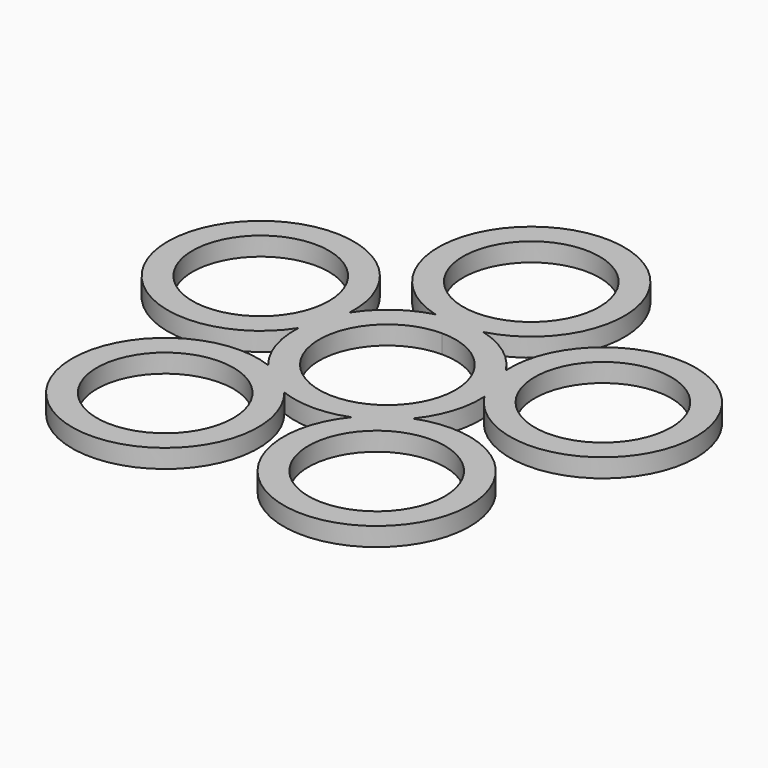
from build123d import *

# Parameters (mm, degrees)
F0_R     = 11
F1_DEPTH = 3


with BuildPart() as f1:
    # F0 (on Top) → F1 (new body)
    with BuildSketch(Plane.XY):
        with BuildLine():
            ThreePointArc((-12.603517, 8.133348), (-41.846487, 13.596748), (-14.977122, 0.828145))
            ThreePointArc((-14.977122, 0.828145), (-14.265848, -4.635255), (-11.629975, -9.473314))
            ThreePointArc((-11.629975, -9.473314), (-25.862551, -35.596748), (-5.415797, -13.988179))
            ThreePointArc((-5.415797, -13.988179), (0, -15), (5.415797, -13.988179))
            ThreePointArc((5.415797, -13.988179), (25.862551, -35.596748), (11.629975, -9.473314))
            ThreePointArc((11.629975, -9.473314), (14.265848, -4.635255), (14.977122, 0.828145))
            ThreePointArc((14.977122, 0.828145), (41.846487, 13.596748), (12.603517, 8.133348))
            ThreePointArc((12.603517, 8.133348), (8.816779, 12.135255), (3.840573, 14.5))
            ThreePointArc((3.840573, 14.5), (0, 44), (-3.840573, 14.5))
            ThreePointArc((-3.840573, 14.5), (-8.816779, 12.135255), (-12.603517, 8.133348))
        make_face()
        with Locations((-17.045772, -23.461493)):
            Circle(F0_R, mode=Mode.SUBTRACT)
        with Locations((17.045772, -23.461493)):
            Circle(F0_R, mode=Mode.SUBTRACT)
        with BuildLine():
            ThreePointArc((0, 11), (7.778175, 7.778175), (11, 0))
            ThreePointArc((11, 0), (-7.778175, -7.778175), (0, 11))
        make_face(mode=Mode.SUBTRACT)
        with Locations((-27.580639, 8.961493)):
            Circle(F0_R, mode=Mode.SUBTRACT)
        with Locations((27.580639, 8.961493)):
            Circle(F0_R, mode=Mode.SUBTRACT)
        with BuildLine():
            ThreePointArc((11, 29), (7.778175, 21.221825), (0, 18))
            ThreePointArc((0, 18), (-7.778175, 36.778175), (11, 29))
        make_face(mode=Mode.SUBTRACT)
    extrude(amount=F1_DEPTH)


solid = f1.part
